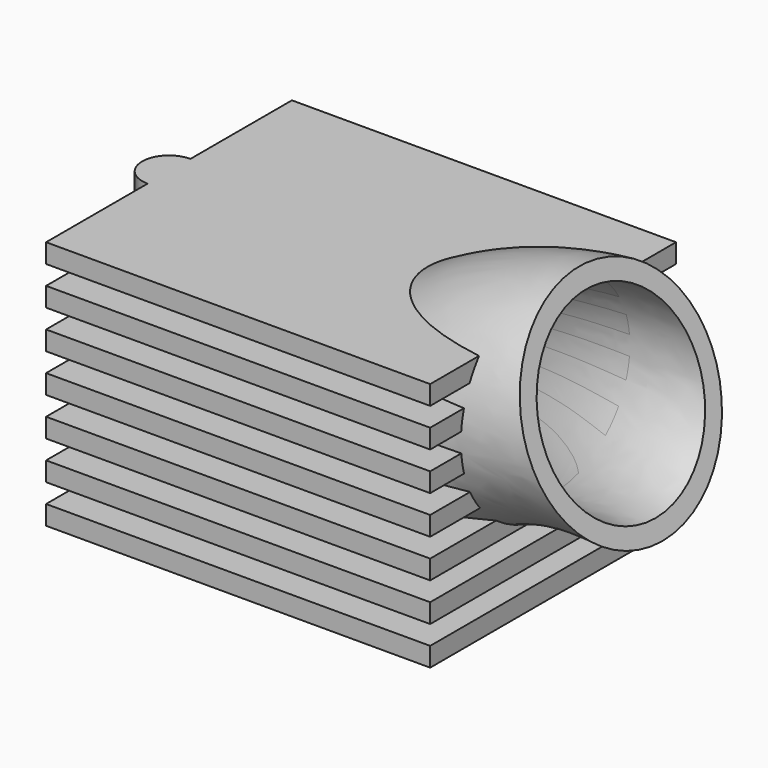
from build123d import *

# Parameters (mm, degrees)
F0_R     = 30
F0_R_2   = 25
F3_W     = 100
F3_H     = 5
F4_DEPTH = 40
F5_DEPTH = 40
F7_DEPTH = 62


with BuildPart() as f2:
    # F2: sweep along a path in F1
    with BuildLine(Plane.XZ) as f2_path:
        ThreePointArc((70, 50), (27.2550178463, 35.8429750152), (0, 0))
    # F0 (on Top) → F2 (sweep)
    with BuildSketch(Plane.XY):
        Circle(F0_R)
        Circle(F0_R_2, mode=Mode.SUBTRACT)
    sweep(path=f2_path.line)

    # F3 (on Front) → F4 (join)
    with BuildSketch(Plane.XZ):
        with Locations((2.3504183816, 62.5)):
            Rectangle(F3_W, F3_H)
        with Locations((2.3504183816, 52.5)):
            Rectangle(F3_W, F3_H)
        with Locations((2.3504183816, 42.5)):
            Rectangle(F3_W, F3_H)
        with Locations((2.3504183816, 32.5)):
            Rectangle(F3_W, F3_H)
        with Locations((2.3504183816, 22.5)):
            Rectangle(F3_W, F3_H)
        with Locations((2.3504183816, 12.5)):
            Rectangle(F3_W, F3_H)
        with Locations((2.3504183816, 2.5)):
            Rectangle(F3_W, F3_H)
    extrude(amount=F4_DEPTH)

    # F3 (on Front) → F5 (join)
    with BuildSketch(Plane.XZ):
        with Locations((2.3504183816, 62.5)):
            Rectangle(F3_W, F3_H)
        with Locations((2.3504183816, 52.5)):
            Rectangle(F3_W, F3_H)
        with Locations((2.3504183816, 42.5)):
            Rectangle(F3_W, F3_H)
        with Locations((2.3504183816, 32.5)):
            Rectangle(F3_W, F3_H)
        with Locations((2.3504183816, 22.5)):
            Rectangle(F3_W, F3_H)
        with Locations((2.3504183816, 12.5)):
            Rectangle(F3_W, F3_H)
        with Locations((2.3504183816, 2.5)):
            Rectangle(F3_W, F3_H)
    extrude(amount=-F5_DEPTH)

    # F6 (on face) → F7 (join)
    with BuildSketch(Plane.XY.offset(65)):
        with BuildLine():
            Line((-47.6495816184, -6.976782832), (-47.6495816184, 6.976782832))
            ThreePointArc((-47.6495816184, 6.976782832), (-54.6263644504, 0), (-47.6495816184, -6.976782832))
        make_face()
    extrude(amount=-F7_DEPTH)

    # F8: sweep along a path in F1
    with BuildLine(Plane.XZ) as f8_path:
        ThreePointArc((70, 50), (27.2550178463, 35.8429750152), (0, 0))
    # F0 (on Top) → F8 (sweep, cut)
    with BuildSketch(Plane.XY):
        Circle(F0_R_2)
    sweep(path=f8_path.line, mode=Mode.SUBTRACT)


solid = f2.part
